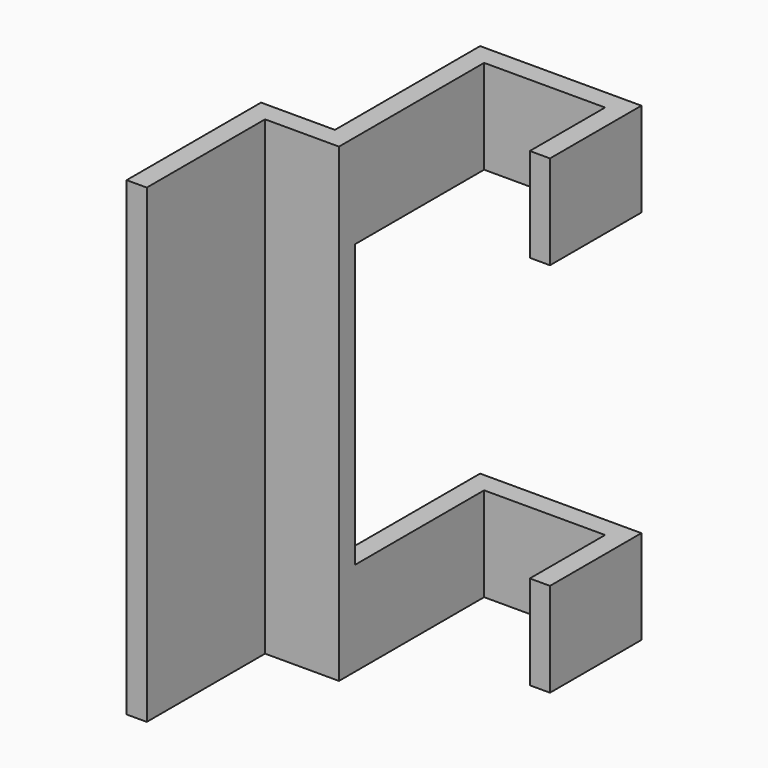
from build123d import *

# Parameters (mm, degrees)
F1_DEPTH = 70
F2_W     = 27
F2_H     = 42
F3_DEPTH = 25


with BuildPart() as f1:
    # F0 (on Top) → F1 (new body)
    with BuildSketch(Plane.XY):
        Polygon((0, 14), (0, 0), (3, 0), (3, 17), (-21, 17), (-21, -10), (-32, -10), (-32, -35), (-29, -35), (-29, -13), (-18, -13), (-18, 14), align=None)
    extrude(amount=F1_DEPTH)

    # F2 (on face) → F3 (cut)
    with BuildSketch(Plane(origin=(-21, 0, 0), x_dir=(0, -1, 0), z_dir=(-1, 0, 0))):
        with Locations((-3.5, 35)):
            Rectangle(F2_W, F2_H)
    extrude(amount=-F3_DEPTH, mode=Mode.SUBTRACT)


solid = f1.part
